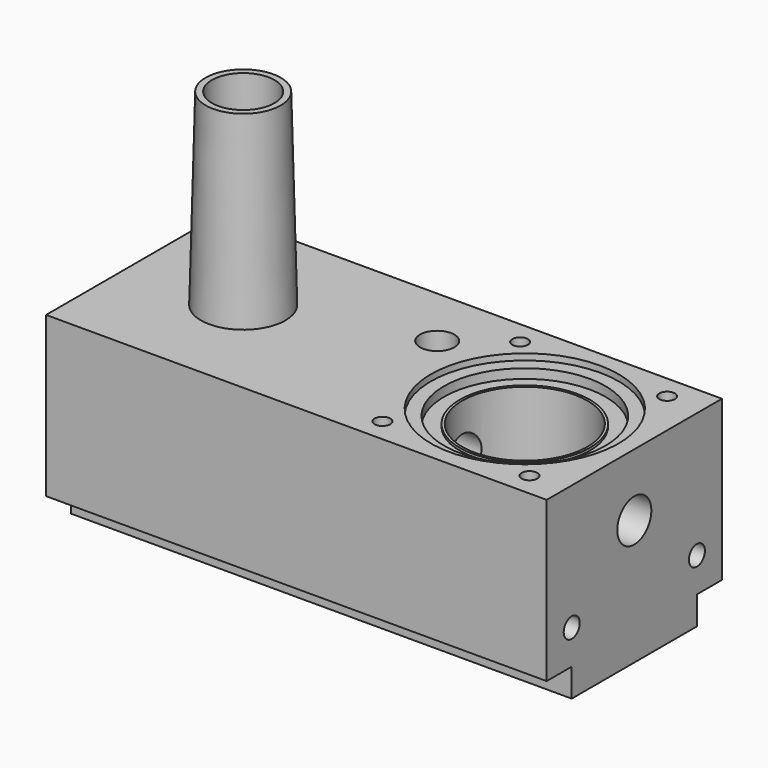
from build123d import *

# Parameters (mm, degrees)
PAD_DEPTH       = 30
SKETCH003_R     = 5
HOLE_DEPTH      = 44
HOLE_TIPS_R     = 5
SKETCH005_R     = 2.5
HOLE001_DEPTH   = 60.001
SKETCH011_R     = 3.2
HOLE002_DEPTH   = 60
HOLE002_TIPS_R  = 3.2
SKETCH013_R     = 1.25
HOLE003_DEPTH   = 10
HOLE003_TIPS_R  = 1.25
SKETCH014_R     = 3.4
HOLE004_DEPTH   = 20
HOLE004_TIPS_R  = 3.4
SKETCH015_R     = 10
SKETCH015_R_2   = 3.5
SKETCH015_W     = 112.5
SKETCH015_H     = 5
POCKET001_DEPTH = 5
SKETCH016_R     = 1.6
HOLE005_DEPTH   = 20
HOLE005_TIPS_R  = 1.6
SKETCH029_R     = 2.75
POCKET007_DEPTH = 60.001


with BuildPart() as part:
    # Sketch → Revolution (revolve)
    with BuildSketch(Plane.XZ):
        Polygon((6, 60), (6.75, 30), (0, 30), (0, 60), align=None)
    revolve(axis=Axis((0, 0, 0), (0, 0, 1)))

    # Sketch006 → Pad (new body)
    with BuildSketch(Plane.XY):
        Polygon((0, 17.5), (62.5, 17.5), (62.5, -17.5), (0, -17.5), (-17.5, -17.5), (-17.5, 17.5), align=None)
    extrude(amount=PAD_DEPTH)

    # Sketch003 → Hole (cut)
    with BuildSketch(Plane.XY.offset(60)):
        Circle(SKETCH003_R)
    extrude(amount=-HOLE_DEPTH, mode=Mode.SUBTRACT)

    # Hole tips → Hole tip 1 section 0
    with BuildSketch(Plane.XY.offset(16), mode=Mode.PRIVATE) as hole_tip_1_s0:
        Circle(HOLE_TIPS_R)
    loft([hole_tip_1_s0.sketch, Vertex(0, 0, 12.995697)], mode=Mode.SUBTRACT)

    # Sketch005 → Hole001 (cut, through all)
    with BuildSketch(Plane.XY):
        with Locations((-2.5, 0)):
            Circle(SKETCH005_R)
    extrude(amount=HOLE001_DEPTH, mode=Mode.SUBTRACT)

    # Sketch011 → Hole002 (cut)
    with BuildSketch(Plane.YZ.offset(62.5)):
        with Locations((0, 20)):
            Circle(SKETCH011_R)
    extrude(amount=-HOLE002_DEPTH, mode=Mode.SUBTRACT)

    # Hole002 tips → Hole002 tip 1 section 0
    with BuildSketch(Plane.YZ.offset(2.5), mode=Mode.PRIVATE) as hole002_tip_1_s0:
        with Locations((0, 20)):
            Circle(HOLE002_TIPS_R)
    loft([hole002_tip_1_s0.sketch, Vertex(0.577246, 0, 20)], mode=Mode.SUBTRACT)

    # Sketch012 → Groove (revolve, cut)
    with BuildSketch(Plane.YZ.offset(45)):
        Polygon((15, 30), (15, 29), (12.9, 29), (12.9, 27.5), (10.4, 27.5), (10.4, 27.9), (10, 27.9), (10, 11.5), (5.4, 11.5), (4.788889, 6.5), (2.5, 6.5), (2.5, 0), (0, 0), (0, 30), align=None)
    revolve(axis=Axis((45, 0, 0), (0, 0, 1)), mode=Mode.SUBTRACT)

    # Sketch013 → Hole003 (cut)
    with BuildSketch(Plane.XY.offset(30)):
        with Locations((33.25, 13.75)):
            Circle(SKETCH013_R)
        with Locations((56.75, 13.75)):
            Circle(SKETCH013_R)
        with Locations((33.25, -13.75)):
            Circle(SKETCH013_R)
        with Locations((56.75, -13.75)):
            Circle(SKETCH013_R)
    extrude(amount=-HOLE003_DEPTH, mode=Mode.SUBTRACT)

    # Hole003 tips → Hole003 tip 1 section 0
    with BuildSketch(Plane.XY.offset(20), mode=Mode.PRIVATE) as hole003_tip_1_s0:
        with Locations((33.25, 13.75)):
            Circle(HOLE003_TIPS_R)
    loft([hole003_tip_1_s0.sketch, Vertex(33.25, 13.75, 19.248924)], mode=Mode.SUBTRACT)

    # Hole003 tips → Hole003 tip 2 section 0
    with BuildSketch(Plane.XY.offset(20), mode=Mode.PRIVATE) as hole003_tip_2_s0:
        with Locations((56.75, 13.75)):
            Circle(HOLE003_TIPS_R)
    loft([hole003_tip_2_s0.sketch, Vertex(56.75, 13.75, 19.248924)], mode=Mode.SUBTRACT)

    # Hole003 tips → Hole003 tip 3 section 0
    with BuildSketch(Plane.XY.offset(20), mode=Mode.PRIVATE) as hole003_tip_3_s0:
        with Locations((33.25, -13.75)):
            Circle(HOLE003_TIPS_R)
    loft([hole003_tip_3_s0.sketch, Vertex(33.25, -13.75, 19.248924)], mode=Mode.SUBTRACT)

    # Hole003 tips → Hole003 tip 4 section 0
    with BuildSketch(Plane.XY.offset(20), mode=Mode.PRIVATE) as hole003_tip_4_s0:
        with Locations((56.75, -13.75)):
            Circle(HOLE003_TIPS_R)
    loft([hole003_tip_4_s0.sketch, Vertex(56.75, -13.75, 19.248924)], mode=Mode.SUBTRACT)

    # Sketch014 → Hole004 (cut)
    with BuildSketch(Plane.YZ.offset(62.5)):
        with Locations((0, 20)):
            Circle(SKETCH014_R)
    extrude(amount=-HOLE004_DEPTH, mode=Mode.SUBTRACT)

    # Hole004 tips → Hole004 tip 1 section 0
    with BuildSketch(Plane.YZ.offset(42.5), mode=Mode.PRIVATE) as hole004_tip_1_s0:
        with Locations((0, 20)):
            Circle(HOLE004_TIPS_R)
    loft([hole004_tip_1_s0.sketch, Vertex(40.457074, 0, 20)], mode=Mode.SUBTRACT)

    # Sketch015 → Pocket001 (cut)
    with BuildSketch(Plane.XY.offset(4.5)):
        with Locations((45, 0)):
            Circle(SKETCH015_R)
        with Locations((45, 0)):
            Circle(SKETCH015_R_2, mode=Mode.SUBTRACT)
        with Locations((6.25, 15)):
            Rectangle(SKETCH015_W, SKETCH015_H)
        with Locations((6.25, -15)):
            Rectangle(SKETCH015_W, SKETCH015_H)
    extrude(amount=-POCKET001_DEPTH, mode=Mode.SUBTRACT)

    # Sketch016 → Hole005 (cut)
    with BuildSketch(Plane.YZ.offset(62.5)):
        with Locations((-12.5, 10)):
            Circle(SKETCH016_R)
        with Locations((12.5, 10)):
            Circle(SKETCH016_R)
    extrude(amount=-HOLE005_DEPTH, mode=Mode.SUBTRACT)

    # Hole005 tips → Hole005 tip 1 section 0
    with BuildSketch(Plane.YZ.offset(42.5), mode=Mode.PRIVATE) as hole005_tip_1_s0:
        with Locations((-12.5, 10)):
            Circle(HOLE005_TIPS_R)
    loft([hole005_tip_1_s0.sketch, Vertex(41.538623, -12.5, 10)], mode=Mode.SUBTRACT)

    # Hole005 tips → Hole005 tip 2 section 0
    with BuildSketch(Plane.YZ.offset(42.5), mode=Mode.PRIVATE) as hole005_tip_2_s0:
        with Locations((12.5, 10)):
            Circle(HOLE005_TIPS_R)
    loft([hole005_tip_2_s0.sketch, Vertex(41.538623, 12.5, 10)], mode=Mode.SUBTRACT)

    # Sketch029 → Pocket007 (cut, through all)
    with BuildSketch(Plane.XY):
        with Locations((25, 7.5)):
            Circle(SKETCH029_R)
    extrude(amount=POCKET007_DEPTH, mode=Mode.SUBTRACT)


solid = part.part
